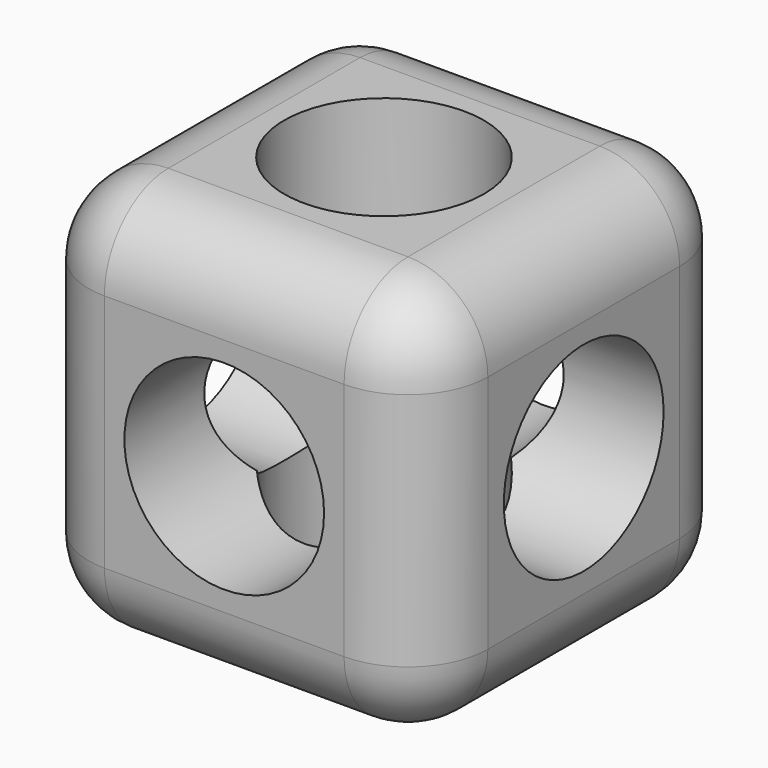
from build123d import *

# Parameters (mm, degrees)
F0_W     = 50
F0_H     = 50
F1_DEPTH = 50
F2_R     = 12.5
F3_DEPTH = 213.370338
F4_R     = 10
F5_R     = 12.5
F6_DEPTH = 50
F7_R     = 12.5
F8_DEPTH = 50


with BuildPart() as f1:
    # F0 (on Top) → F1 (new body)
    with BuildSketch(Plane.XY):
        Rectangle(F0_W, F0_H)
    extrude(amount=F1_DEPTH)

    # F2 (on Top) → F3 (cut)
    with BuildSketch(Plane.XY):
        Circle(F2_R)
    extrude(amount=F3_DEPTH, mode=Mode.SUBTRACT)

    # F4
    f4_edges = [f1.edges().sort_by_distance(p)[0] for p in [
        (25, -25, 25),
        (25, 0, 50),
        (25, 25, 25),
        (25, 0, 0),
        (0, 25, 50),
        (0, -25, 50),
        (-25, 0, 50),
        (-25, -25, 25),
        (0, -25, 0),
        (-25, 0, 0),
        (0, 25, 0),
        (-25, 25, 25),
    ]]
    fillet(f4_edges, radius=F4_R)

    # F5 (on Right) → F6 (cut, symmetric)
    with BuildSketch(Plane.YZ):
        with Locations((0, 25)):
            Circle(F5_R)
    extrude(amount=F6_DEPTH, both=True, mode=Mode.SUBTRACT)

    # F7 (on Front) → F8 (cut, symmetric)
    with BuildSketch(Plane.XZ):
        with Locations((0, 25)):
            Circle(F7_R)
    extrude(amount=F8_DEPTH, both=True, mode=Mode.SUBTRACT)


solid = f1.part
